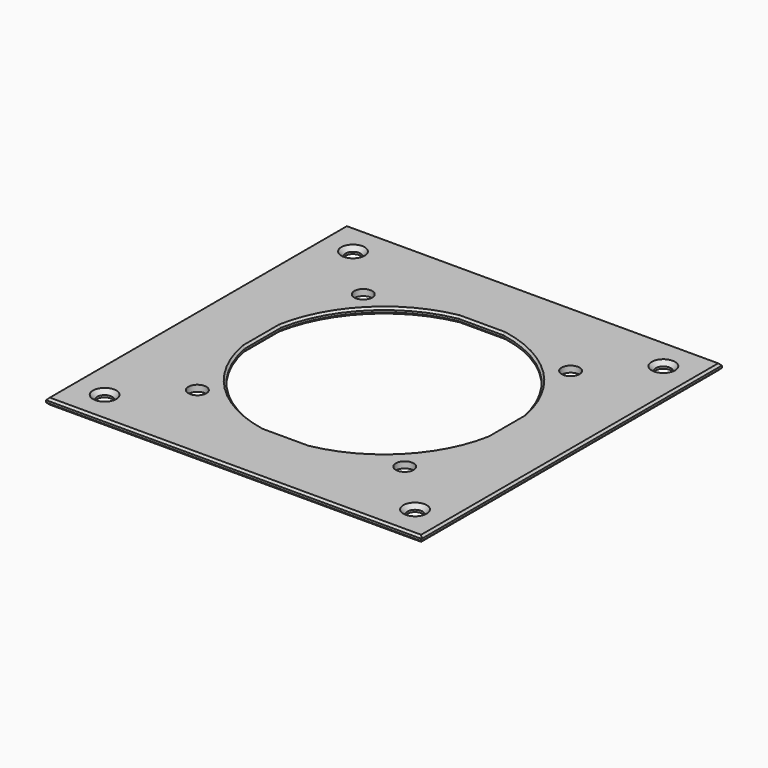
from build123d import *

# Parameters (mm, degrees)
F0_W     = 90
F0_H     = 90
F0_R     = 1.8
F0_R_2   = 2.15
F1_DEPTH = 1.5
F2_SIZE2 = 1
F2_SIZE  = 1
F3_SIZE  = 0.5


with BuildPart() as f1:
    # F0 (on Top) → F1 (new body)
    with BuildSketch(Plane.XY):
        Rectangle(F0_W, F0_H)
        with Locations((-37.2, -37.2)):
            Circle(F0_R, mode=Mode.SUBTRACT)
        with Locations((-24.85, -24.85)):
            Circle(F0_R_2, mode=Mode.SUBTRACT)
        with Locations((37.2, -37.2)):
            Circle(F0_R, mode=Mode.SUBTRACT)
        with Locations((24.85, -24.85)):
            Circle(F0_R_2, mode=Mode.SUBTRACT)
        with Locations((-24.85, 24.85)):
            Circle(F0_R_2, mode=Mode.SUBTRACT)
        with Locations((-37.2, 37.2)):
            Circle(F0_R, mode=Mode.SUBTRACT)
        with BuildLine():
            Line((-5.408327, 29), (5.408327, 29))
            ThreePointArc((5.408327, 29), (20.85965, 20.85965), (29, 5.408327))
            Line((29, 5.408327), (29, -5.408327))
            ThreePointArc((29, -5.408327), (20.85965, -20.85965), (5.408327, -29))
            Line((5.408327, -29), (-5.408327, -29))
            ThreePointArc((-5.408327, -29), (-20.85965, -20.85965), (-29, -5.408327))
            Line((-29, -5.408327), (-29, 5.408327))
            ThreePointArc((-29, 5.408327), (-20.85965, 20.85965), (-5.408327, 29))
        make_face(mode=Mode.SUBTRACT)
        with Locations((24.85, 24.85)):
            Circle(F0_R_2, mode=Mode.SUBTRACT)
        with Locations((37.2, 37.2)):
            Circle(F0_R, mode=Mode.SUBTRACT)
    extrude(amount=F1_DEPTH)

    # F2
    f2_edges = [f1.edges().sort_by_distance(p)[0] for p in [
        (-39, 37.2, 1.5),
        (35.4, 37.2, 1.5),
        (35.4, -37.2, 1.5),
        (-39, -37.2, 1.5),
    ]]
    chamfer(f2_edges, length=F2_SIZE, length2=F2_SIZE2)

    # F3
    f3_edges = [f1.edges().sort_by_distance(p)[0] for p in [
        (0, -45, 0),
        (-45, 0, 0),
        (45, 0, 0),
        (0, 45, 0),
        (-45, 0, 1.5),
        (0, -45, 1.5),
        (45, 0, 1.5),
        (0, 45, 1.5),
        (-20.85965, -20.85965, 0),
        (-20.85965, -20.85965, 1.5),
        (0, -29, 0),
        (0, -29, 1.5),
        (20.85965, -20.85965, 0),
        (20.85965, -20.85965, 1.5),
        (-29, 0, 0),
        (-29, 0, 1.5),
        (-20.85965, 20.85965, 1.5),
        (-20.85965, 20.85965, 0),
        (20.85965, 20.85965, 1.5),
        (29, 0, 1.5),
        (0, 29, 1.5),
        (29, 0, 0),
        (20.85965, 20.85965, 0),
        (0, 29, 0),
    ]]
    chamfer(f3_edges, length=F3_SIZE)


solid = f1.part
